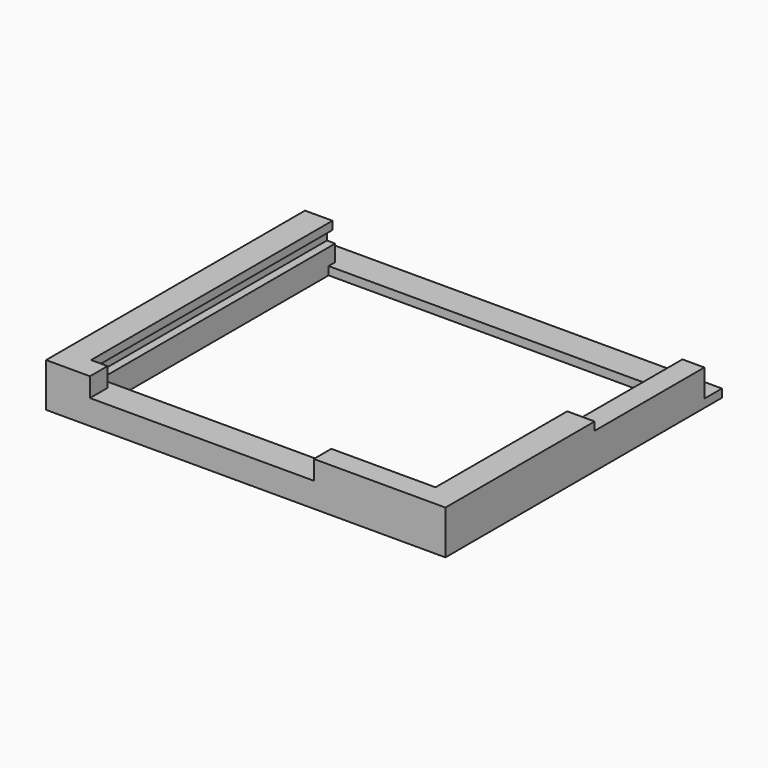
from build123d import *

# Parameters (mm, degrees)
BOX004_W      = 4
BOX004_H      = 55
BOX004_DEPTH  = 2
BOX005_W      = 4
BOX005_H      = 55
BOX005_DEPTH  = 2
BOX006_W      = 5
BOX006_H      = 30
BOX006_DEPTH  = 1.5
BOX007_W      = 24
BOX007_H      = 4
BOX007_DEPTH  = 3.5
BOX010_W      = 8
BOX010_H      = 4
BOX010_DEPTH  = 3.5
BOX003_W      = 5
BOX003_H      = 55
BOX003_DEPTH  = 1.5
BOX011_W      = 5.5
BOX011_H      = 59
BOX011_DEPTH  = 3
BOX012_W      = 5.5
BOX012_H      = 59
BOX012_DEPTH  = 3
BOX013_W      = 68.8
BOX013_H      = 5.5
BOX013_DEPTH  = 3
SKETCH003_W   = 72.8
SKETCH003_H   = 63
SKETCH003_W_2 = 61.8
SKETCH003_H_2 = 52
PAD003_DEPTH  = 1.5


with BuildPart() as middle_pad:
    # Box004 → Box004 (new body)
    with BuildSketch(Plane(origin=(-4, 0, 0), x_dir=(1, 0, 0), z_dir=(0, 0, 1))):
        with Locations((2, 27.5)):
            Rectangle(BOX004_W, BOX004_H)
    extrude(amount=BOX004_DEPTH)


with BuildPart() as middle_pad001:
    # Box005 → Box005 (new body)
    with BuildSketch(Plane(origin=(64.8, 0, 0), x_dir=(1, 0, 0), z_dir=(0, 0, 1))):
        with Locations((2, 27.5)):
            Rectangle(BOX005_W, BOX005_H)
    extrude(amount=BOX005_DEPTH)


with BuildPart() as top_cover001:
    # Box006 → Box006 (new body)
    with BuildSketch(Plane(origin=(63.8, 0, 2), x_dir=(1, 0, 0), z_dir=(0, 0, 1))):
        with Locations((2.5, 15)):
            Rectangle(BOX006_W, BOX006_H)
    extrude(amount=BOX006_DEPTH)


with BuildPart() as middle_pad002:
    # Box007 → Box007 (new body)
    with BuildSketch(Plane(origin=(44.8, -4, 0), x_dir=(1, 0, 0), z_dir=(0, 0, 1))):
        with Locations((12, 2)):
            Rectangle(BOX007_W, BOX007_H)
    extrude(amount=BOX007_DEPTH)


with BuildPart() as side_pad:
    # Box010 → Box010 (new body)
    with BuildSketch(Plane(origin=(-4, -4, 0), x_dir=(1, 0, 0), z_dir=(0, 0, 1))):
        with Locations((4, 2)):
            Rectangle(BOX010_W, BOX010_H)
    extrude(amount=BOX010_DEPTH)


with BuildPart() as fusion002:
    # Box003 → Box003 (new body)
    with BuildSketch(Plane(origin=(-4, 0, 2), x_dir=(1, 0, 0), z_dir=(0, 0, 1))):
        with Locations((2.5, 27.5)):
            Rectangle(BOX003_W, BOX003_H)
    extrude(amount=BOX003_DEPTH)

    # Fusion002: union middle_pad, middle_pad001, top cover001, middle_pad002, side_pad
    add(middle_pad.part)
    add(middle_pad001.part)
    add(top_cover001.part)
    add(middle_pad002.part)
    add(side_pad.part)


with BuildPart() as fusion002_1:
    # Fusion002 placement: moved
    add(fusion002.part.moved(Location((0, 0, 3))))


with BuildPart() as cube003:
    # Box011 → Box011 (new body)
    with BuildSketch(Plane(origin=(-4, -4, 0), x_dir=(1, 0, 0), z_dir=(0, 0, 1))):
        with Locations((2.75, 29.5)):
            Rectangle(BOX011_W, BOX011_H)
    extrude(amount=BOX011_DEPTH)


with BuildPart() as cube004:
    # Box012 → Box012 (new body)
    with BuildSketch(Plane(origin=(63.3, -4, 0), x_dir=(1, 0, 0), z_dir=(0, 0, 1))):
        with Locations((2.75, 29.5)):
            Rectangle(BOX012_W, BOX012_H)
    extrude(amount=BOX012_DEPTH)


with BuildPart() as cube005:
    # Box013 → Box013 (new body)
    with BuildSketch(Plane(origin=(-1.5, -4, 0), x_dir=(1, 0, 0), z_dir=(0, 0, 1))):
        with Locations((34.4, 2.75)):
            Rectangle(BOX013_W, BOX013_H)
    extrude(amount=BOX013_DEPTH)


with BuildPart() as fusion001:
    # Sketch003 → Pad003 (new body)
    with BuildSketch(Plane.XY):
        with Locations((32.4, 27.5)):
            Rectangle(SKETCH003_W, SKETCH003_H)
        with Locations((32.4, 27.5)):
            Rectangle(SKETCH003_W_2, SKETCH003_H_2, mode=Mode.SUBTRACT)
    extrude(amount=-PAD003_DEPTH)

    # Fusion001: union Fusion002, Cube003, Cube004, Cube005
    add(fusion002_1.part)
    add(cube003.part)
    add(cube004.part)
    add(cube005.part)


solid = fusion001.part
